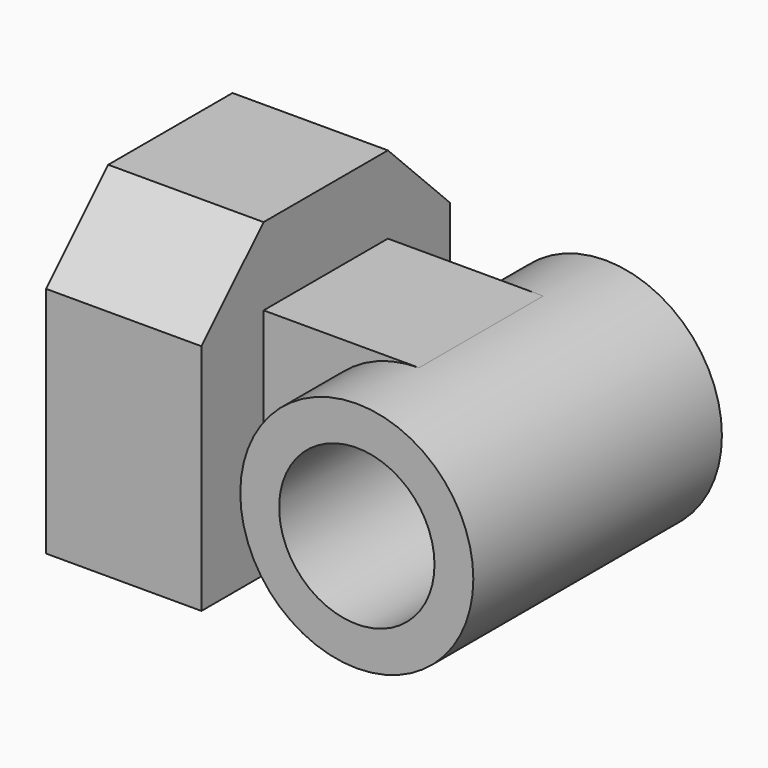
from build123d import *

# Parameters (mm, degrees)
F1_DEPTH = 12.7
F2_W     = 12.7
F2_H     = 19.05
F3_DEPTH = 25.4
F4_R     = 9.525
F5_DEPTH = 25.4
F6_R     = 6.35
F7_DEPTH = 25.4


with BuildPart() as f1:
    # F0 (on Right) → F1 (new body)
    with BuildSketch(Plane.YZ):
        Polygon((0, 19.05), (0, 0), (25.4, 0), (25.4, 19.05), (19.05, 25.4), (6.35, 25.4), align=None)
    extrude(amount=F1_DEPTH)

    # F2 (on Right) → F3 (join)
    with BuildSketch(Plane.YZ):
        with Locations((12.7, 9.525)):
            Rectangle(F2_W, F2_H)
    extrude(amount=F3_DEPTH)

    # F4 (on Front) → F5 (join)
    with BuildSketch(Plane.XZ):
        with Locations((25.4, 9.525)):
            Circle(F4_R)
    extrude(amount=-F5_DEPTH)

    # F6 (on Front) → F7 (cut)
    with BuildSketch(Plane.XZ):
        with Locations((25.4, 9.525)):
            Circle(F6_R)
    extrude(amount=-F7_DEPTH, mode=Mode.SUBTRACT)


solid = f1.part
